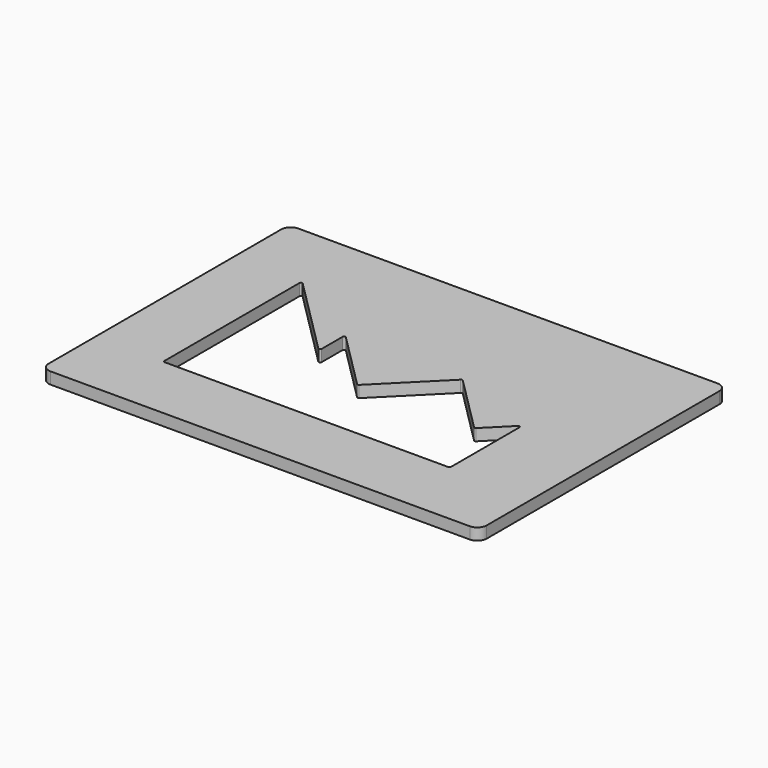
from build123d import *

# Parameters (mm, degrees)
F0_W     = 238.125
F0_H     = 168.275
F1_DEPTH = 6.35
F3_DEPTH = 25.4
F5_DEPTH = 25.4
F6_R     = 5.08


with BuildPart() as f1:
    # F0 (on Top) → F1 (new body)
    with BuildSketch(Plane.XY):
        Rectangle(F0_W, F0_H)
    extrude(amount=F1_DEPTH)

    # F2 (on face) → F3 (cut)
    with BuildSketch(Plane.XY.offset(6.35)):
        Polygon((-35.7505, -1.0795), (-80.9625, 44.1325), (-80.9625, -46.0375), (72.359927, -46.0375), (72.359927, -1.0795), (59.11182, -14.327607), (27.321713, 17.4625), (-4.468393, -14.327607), (-35.7505, 16.9545), align=None)
    extrude(amount=-F3_DEPTH, mode=Mode.SUBTRACT)

    # F4 (on face) → F5 (cut)
    with BuildSketch(Plane.XY.offset(6.35)):
        with BuildLine():
            ThreePointArc((-35.676324, 18.676375), (-36.534425, 18.847062), (-37.0205, 18.119599))
            Line((-37.0205, 18.119599), (-37.0205, 3.887503))
            ThreePointArc((-37.0205, 3.887503), (-37.506575, 3.16004), (-38.364676, 3.330727))
            Line((-38.364676, 3.330727), (-80.888324, 45.854375))
            ThreePointArc((-80.888324, 45.854375), (-81.746425, 46.025062), (-82.2325, 45.297599))
            Line((-82.2325, 45.297599), (-82.2325, -46.5201))
            ThreePointArc((-82.2325, -46.5201), (-82.001876, -47.076876), (-81.4451, -47.3075))
            Line((-81.4451, -47.3075), (72.842527, -47.3075))
            ThreePointArc((72.842527, -47.3075), (73.399303, -47.076876), (73.629927, -46.5201))
            Line((73.629927, -46.5201), (73.629927, 0.085599))
            ThreePointArc((73.629927, 0.085599), (73.143852, 0.813062), (72.285751, 0.642375))
            Line((72.285751, 0.642375), (59.668596, -11.97478))
            ThreePointArc((59.668596, -11.97478), (59.11182, -12.205404), (58.555044, -11.97478))
            Line((58.555044, -11.97478), (27.878489, 18.701775))
            ThreePointArc((27.878489, 18.701775), (27.321713, 18.932399), (26.764937, 18.701775))
            Line((26.764937, 18.701775), (-3.911617, -11.97478))
            ThreePointArc((-3.911617, -11.97478), (-4.468393, -12.205404), (-5.025169, -11.97478))
            Line((-5.025169, -11.97478), (-35.676324, 18.676375))
        make_face()
    extrude(amount=-F5_DEPTH, mode=Mode.SUBTRACT)

    # F6
    f6_edges = [f1.edges().sort_by_distance(p)[0] for p in [
        (119.0625, 84.1375, 3.175),
        (119.0625, -84.1375, 3.175),
        (-119.0625, 84.1375, 3.175),
        (-119.0625, -84.1375, 3.175),
    ]]
    fillet(f6_edges, radius=F6_R)


solid = f1.part
